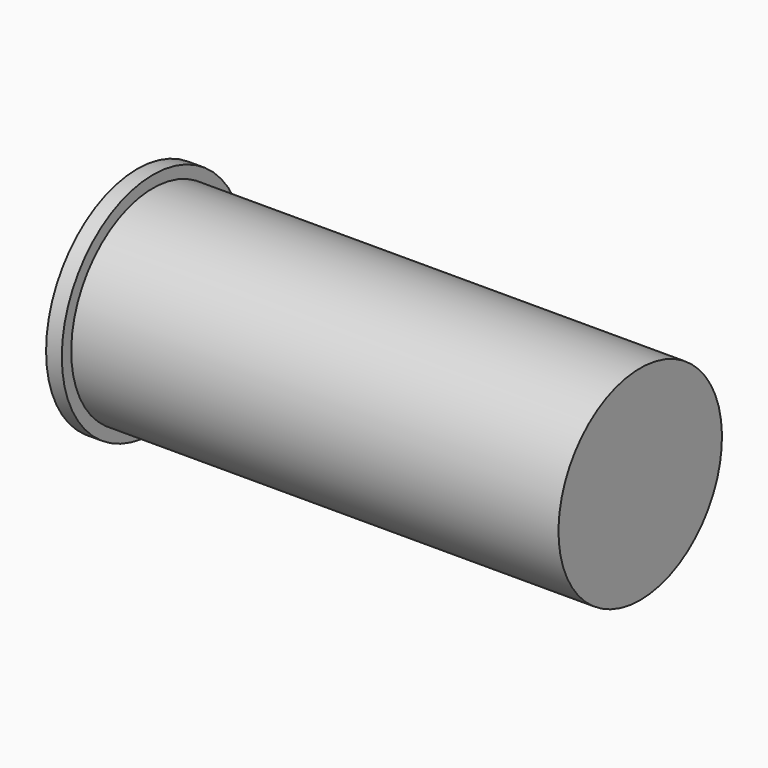
from build123d import *

# Parameters (mm, degrees)
CYLINDER001_R          = 7.25
CYLINDER001_DEPTH      = 1
CYLINDER_R             = 6.5
CYLINDER_DEPTH         = 32
FUSION_PLACEMENT_ANGLE = 90


with BuildPart() as cylinder001:
    # Cylinder001 → Cylinder001 (new body)
    with BuildSketch(Plane.XY):
        Circle(CYLINDER001_R)
    extrude(amount=CYLINDER001_DEPTH)


with BuildPart() as lasermoduletemplate:
    # Cylinder → Cylinder (new body)
    with BuildSketch(Plane.XY):
        Circle(CYLINDER_R)
    extrude(amount=CYLINDER_DEPTH)

    # Fusion: union Cylinder001
    add(cylinder001.part)


with BuildPart() as lasermoduletemplate_1:
    # Fusion placement: moved
    add(lasermoduletemplate.part.moved(Location((-7.5, 0, 7.5))).rotate(Axis((-7.5, 0, 7.5), (0, 1, 0)), FUSION_PLACEMENT_ANGLE))


solid = lasermoduletemplate_1.part
